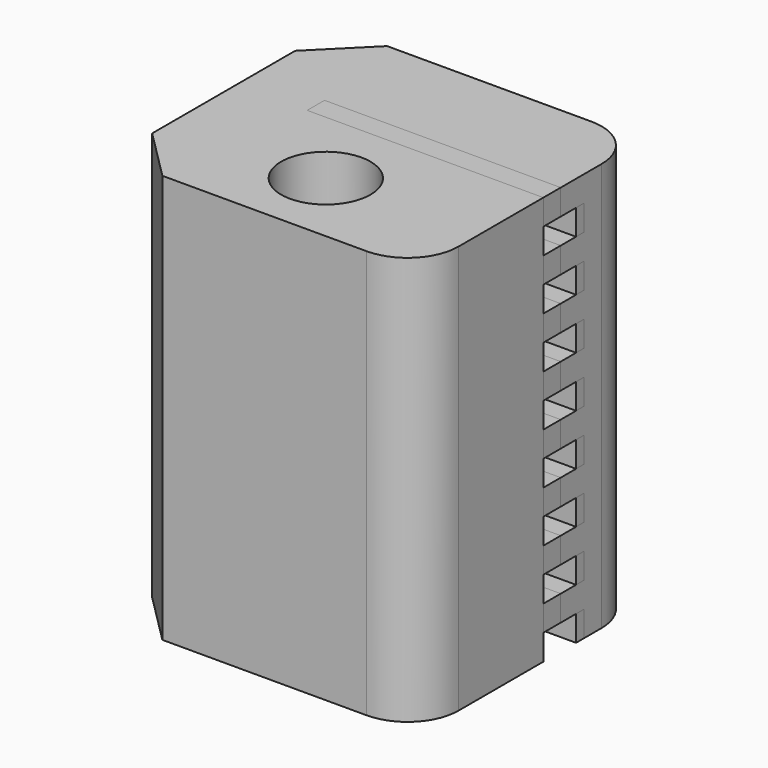
from build123d import *

# Parameters (mm, degrees)
SKETCH162_R     = 1.75
PAD047_DEPTH    = 16
POCKET093_DEPTH = 9.251
SKETCH164_R     = 1.75
PAD048_DEPTH    = 16
POCKET094_DEPTH = 9.251


with BuildPart() as belt_clip:
    # Sketch162 → Pad047 (new body)
    with BuildSketch(Plane.XY.offset(30)):
        with BuildLine():
            Line((-4, 4), (4, 4))
            ThreePointArc((6, 2), (5.414214, 3.414214), (4, 4))
            Line((6, 2), (6, -5))
            ThreePointArc((4, -7), (5.414214, -6.414214), (6, -5))
            Line((4, -7), (-4, -7))
            Line((-6, -5), (-4, -7))
            Line((-6, -5), (-6, 2))
            Line((-6, 2), (-4, 4))
        make_face()
        with Locations((0, -4)):
            Circle(SKETCH162_R, mode=Mode.SUBTRACT)
    extrude(amount=-PAD047_DEPTH)

    # Sketch163 → Pocket093 (cut, through all)
    with BuildSketch(Plane.YZ.offset(-3.25)):
        Polygon((0.75, 30), (0.75, 14), (-1, 14), (-1, 15), (0.15, 15), (0.15, 16), (-1, 16), (-1, 17), (0.15, 17), (0.15, 18), (-1, 18), (-1, 19), (0.15, 19), (0.15, 20), (-1, 20), (-1, 21), (0.15, 21), (0.15, 22), (-1, 22), (-1, 23), (0.15, 23), (0.15, 24), (-1, 24), (-1, 25), (0.15, 25), (0.15, 26), (-1, 26), (-1, 27), (0.15, 27), (0.15, 28), (-1, 28), (-1, 29), (0.15, 29), (0.15, 30), align=None)
    extrude(amount=POCKET093_DEPTH, mode=Mode.SUBTRACT)


with BuildPart() as belt_clip_reversed_teeth:
    # Sketch164 → Pad048 (new body)
    with BuildSketch(Plane.XY.offset(30)):
        with BuildLine():
            Line((-4, 4), (4, 4))
            ThreePointArc((6, 2), (5.414214, 3.414214), (4, 4))
            Line((6, 2), (6, -5))
            ThreePointArc((4, -7), (5.414214, -6.414214), (6, -5))
            Line((4, -7), (-4, -7))
            Line((-6, -5), (-4, -7))
            Line((-6, -5), (-6, 2))
            Line((-6, 2), (-4, 4))
        make_face()
        with Locations((0, -4)):
            Circle(SKETCH164_R, mode=Mode.SUBTRACT)
    extrude(amount=-PAD048_DEPTH)

    # Sketch165 → Pocket094 (cut, through all)
    with BuildSketch(Plane.YZ.offset(-3.25)):
        Polygon((-0.85, 30), (-0.85, 14), (1.15, 14), (1.15, 15), (0, 15), (0, 16), (1.15, 16), (1.15, 17), (0, 17), (0, 18), (1.15, 18), (1.15, 19), (0, 19), (0, 20), (1.15, 20), (1.15, 21), (0, 21), (0, 22), (1.15, 22), (1.15, 23), (0, 23), (0, 24), (1.15, 24), (1.15, 25), (0, 25), (0, 26), (1.15, 26), (1.15, 27), (0, 27), (0, 28), (1.15, 28), (1.15, 29), (0, 29), (0, 30), align=None)
    extrude(amount=POCKET094_DEPTH, mode=Mode.SUBTRACT)


solid = Compound([belt_clip.part, belt_clip_reversed_teeth.part])
